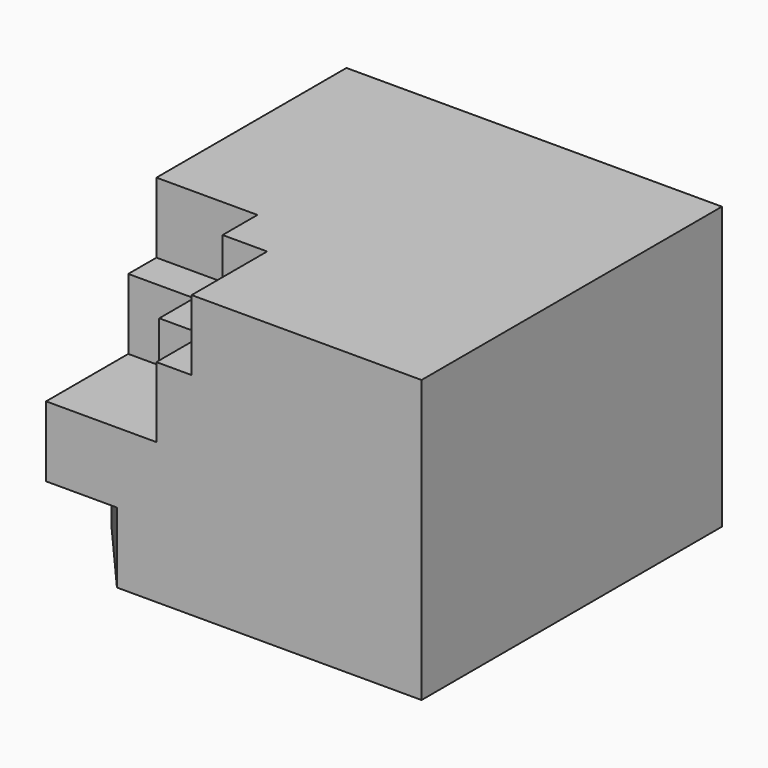
from build123d import *

# Parameters (mm, degrees)
F1_DEPTH = 12.7
F2_W     = 67.693748
F2_H     = 67.693748
F3_DEPTH = 12.7
F5_DEPTH = 12.7
F7_DEPTH = 12.7


with BuildPart() as f1:
    # F0 (on Top) → F1 (new body)
    with BuildSketch(Plane.XY):
        Polygon((0, 14.688266), (12.772406, 0), (67.693748, 0), (67.693748, 67.693748), (0, 67.693748), align=None)
    extrude(amount=F1_DEPTH)

    # F2 (on face) → F3 (join)
    with BuildSketch(Plane.XY.offset(12.7)):
        with Locations((33.846874, 33.846874)):
            Rectangle(F2_W, F2_H)
    extrude(amount=F3_DEPTH)

    # F4 (on face) → F5 (join)
    with BuildSketch(Plane.XY.offset(25.4)):
        Polygon((67.693748, 67.693748), (0, 67.693748), (0, 18.519988), (11.860092, 18.519988), (11.860092, 10.674083), (19.888459, 10.674083), (19.888459, 0), (67.693748, 0), align=None)
    extrude(amount=F5_DEPTH)

    # F6 (on face) → F7 (join)
    with BuildSketch(Plane.XY.offset(38.1)):
        Polygon((18.210092, 17.024082), (26.238458, 17.024082), (26.238458, 0), (67.693748, 0), (67.693748, 67.693748), (0, 67.693748), (0, 24.869988), (18.210092, 24.869988), align=None)
    extrude(amount=F7_DEPTH)


solid = f1.part
